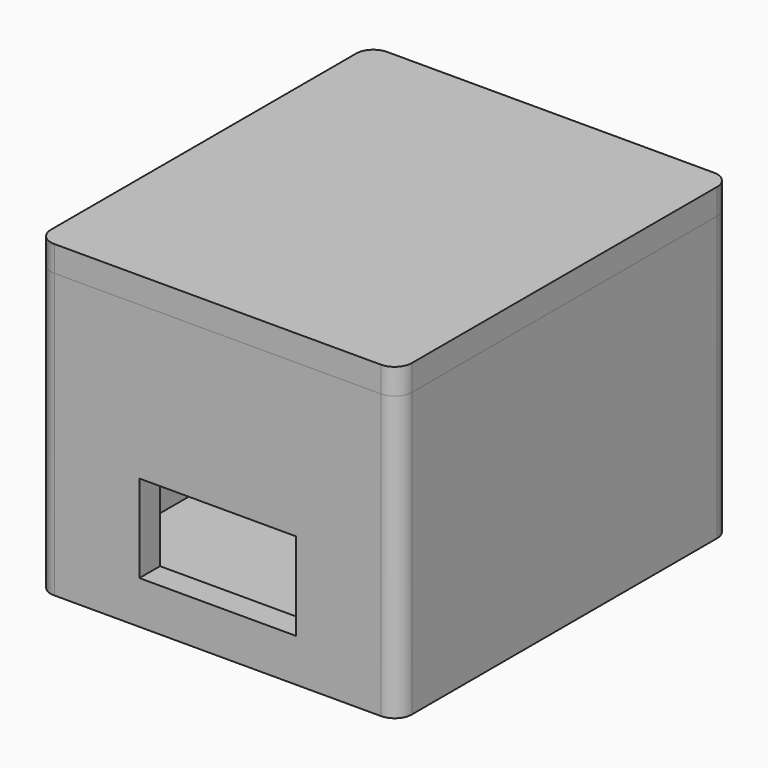
from build123d import *

# Parameters (mm, degrees)
SKETCH_W      = 21
SKETCH_H      = 24.2
PAD_DEPTH     = 1.5
PAD001_DEPTH  = 15
SKETCH002_W   = 1.5
SKETCH002_H   = 8.9
SKETCH002_H_2 = 1
PAD002_DEPTH  = 9.1
SKETCH006_R   = 3.1
POCKET_DEPTH  = 1.5
FILLET_R      = 1
PAD003_DEPTH  = 4
SKETCH005_W   = 21
SKETCH005_H   = 24.2
PAD004_DEPTH  = 1.5
FILLET001_R   = 1


with BuildPart() as case_bottom:
    # Sketch → Pad (new body)
    with BuildSketch(Plane.XY):
        with Locations((10.5, 12.1)):
            Rectangle(SKETCH_W, SKETCH_H)
    extrude(amount=PAD_DEPTH)

    # Sketch001 (on Face6 of Pad) → Pad001 (join)
    with BuildSketch(Plane.XY.offset(1.5)):
        Polygon((5.95, 0), (0, 0), (0, 24.2), (21, 24.2), (21, 0), (15.05, 0), (15.05, 1.5), (19.5, 1.5), (19.5, 22.7), (1.5, 22.7), (1.5, 1.5), (5.95, 1.5), align=None)
    extrude(amount=PAD001_DEPTH)

    # Sketch002 (on Face4 of Pad001) → Pad002 (join)
    with BuildSketch(Plane.YZ.offset(5.95)):
        with Locations((0.75, 12.05)):
            Rectangle(SKETCH002_W, SKETCH002_H)
        with Locations((0.75, 2)):
            Rectangle(SKETCH002_W, SKETCH002_H_2)
    extrude(amount=PAD002_DEPTH)

    # Sketch006 (on Face3 of Pad002) → Pocket (cut)
    with BuildSketch(Plane(origin=(0, 24.2, 0), x_dir=(-1, 0, 0), z_dir=(0, 1, 0))):
        with Locations((-10.5, 11.5)):
            Circle(SKETCH006_R)
    extrude(amount=-POCKET_DEPTH, mode=Mode.SUBTRACT)

    # Fillet
    fillet_edges = [case_bottom.edges().sort_by_distance(p)[0] for p in [
        (21, 24.2, 8.25),
        (0, 24.2, 8.25),
        (0, 0, 8.25),
        (21, 0, 8.25),
    ]]
    fillet(fillet_edges, radius=FILLET_R)


with BuildPart() as cover:
    # Sketch004 → Pad003 (new body)
    with BuildSketch(Plane.XY.offset(16.5)):
        Polygon((6.3, 22.6), (1.6, 22.6), (1.6, 1.6), (19.4, 1.6), (19.4, 22.6), (14.7, 22.6), (14.7, 21.1), (17.9, 21.1), (17.9, 3.1), (3.1, 3.1), (3.1, 21.1), (6.3, 21.1), align=None)
    extrude(amount=-PAD003_DEPTH)

    # Sketch005 (on Face13 of Pad003) → Pad004 (join)
    with BuildSketch(Plane.XY.offset(16.5)):
        with Locations((10.5, 12.1)):
            Rectangle(SKETCH005_W, SKETCH005_H)
    extrude(amount=PAD004_DEPTH)

    # Fillet001
    fillet001_edges = [cover.edges().sort_by_distance(p)[0] for p in [
        (0, 0, 17.25),
        (21, 0, 17.25),
        (0, 24.2, 17.25),
        (21, 24.2, 17.25),
    ]]
    fillet(fillet001_edges, radius=FILLET001_R)


solid = Compound([case_bottom.part, cover.part])
